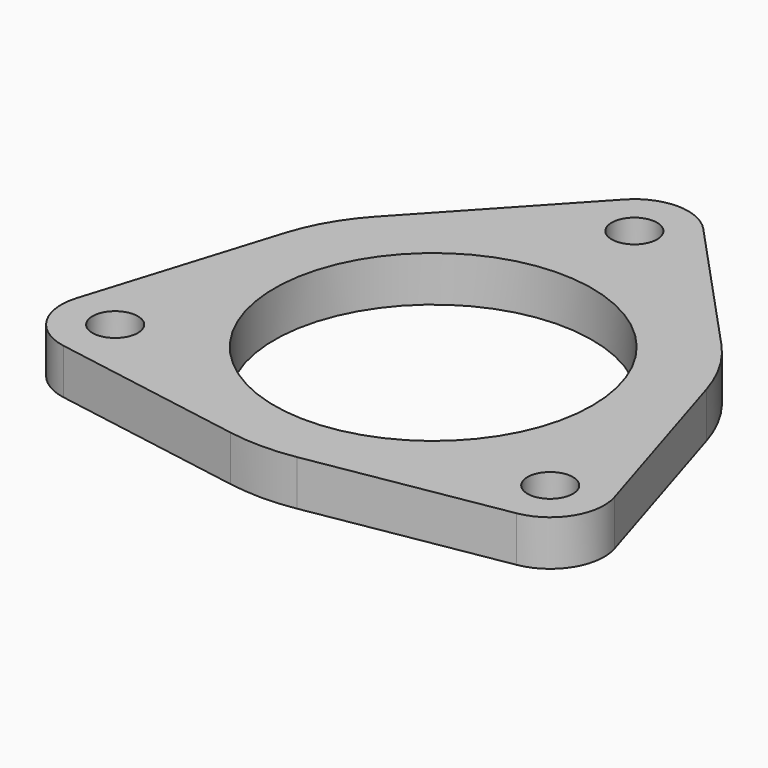
from build123d import *

# Parameters (mm, degrees)
SKETCH_R   = 35
SKETCH_R_2 = 5
PAD_DEPTH  = 10


with BuildPart() as part:
    # Sketch → Pad (new body)
    with BuildSketch(Plane.XY):
        with BuildLine():
            ThreePointArc((8.738871, 63.421137), (0.026212, 67.229999), (-8.689414, 63.427932))
            Line((-8.689414, 63.427932), (-38.097709, 31.714926))
            ThreePointArc((-38.097709, 31.714926), (-43.116334, 24.915646), (-46.50141, 17.172386))
            Line((-59.293751, -24.142484), (-46.50141, 17.172386))
            ThreePointArc((-59.293751, -24.142484), (-58.070122, -33.870995), (-49.949432, -39.366044))
            Line((-49.949432, -39.366044), (-7.319303, -46.662246))
            ThreePointArc((-7.319303, -46.662246), (-0.018435, -47.283947), (7.282915, -46.667939))
            Line((49.918721, -39.404981), (7.282915, -46.667939))
            ThreePointArc((49.918721, -39.404981), (58.043693, -33.916265), (59.274907, -24.188712))
            Line((46.514786, 17.136121), (59.274907, -24.188712))
            ThreePointArc((46.514786, 17.136121), (43.135749, 24.882018), (38.122428, 31.685209))
            Line((8.738871, 63.421137), (38.122428, 31.685209))
        make_face()
        Circle(SKETCH_R, mode=Mode.SUBTRACT)
        with Locations((-47.945296, -27.656311)):
            Circle(SKETCH_R_2, mode=Mode.SUBTRACT)
        with Locations((47.923716, -27.693689)):
            Circle(SKETCH_R_2, mode=Mode.SUBTRACT)
        with Locations((0.02158, 55.35)):
            Circle(SKETCH_R_2, mode=Mode.SUBTRACT)
    extrude(amount=PAD_DEPTH)


solid = part.part
